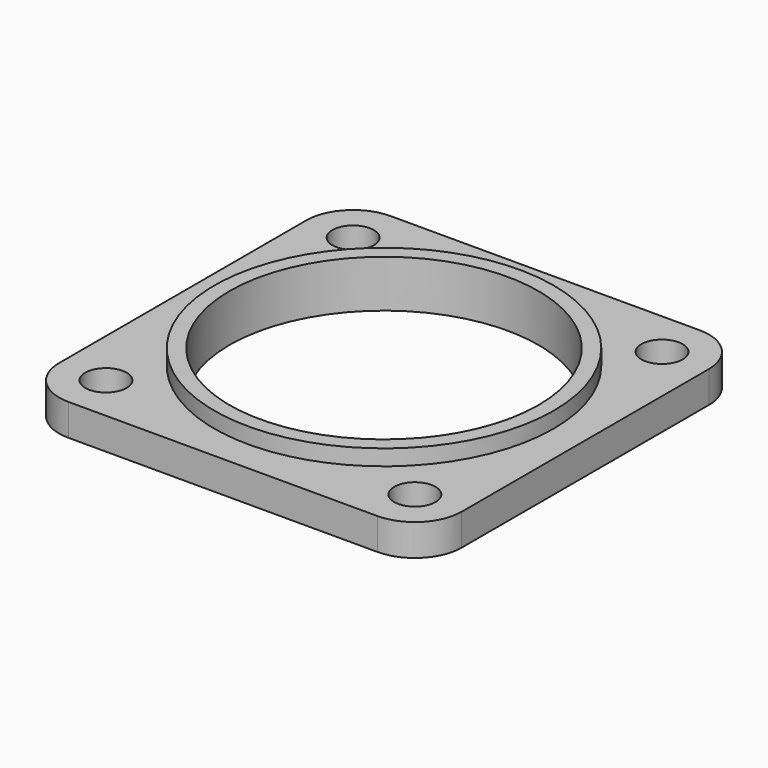
from build123d import *

# Parameters (mm, degrees)
F0_W     = 82.75
F0_H     = 82.75
F0_R     = 4.25
F0_R_2   = 31.75
F1_DEPTH = 6.5
F2_R     = 9.625
F3_R     = 34.875
F3_R_2   = 31.75
F4_DEPTH = 3.25


with BuildPart() as f1:
    # F0 (on Top) → F1 (new body)
    with BuildSketch(Plane.XY):
        Rectangle(F0_W, F0_H)
        with Locations((-31.75, -31.75)):
            Circle(F0_R, mode=Mode.SUBTRACT)
        with Locations((31.75, -31.75)):
            Circle(F0_R, mode=Mode.SUBTRACT)
        with Locations((-31.75, 31.75)):
            Circle(F0_R, mode=Mode.SUBTRACT)
        Circle(F0_R_2, mode=Mode.SUBTRACT)
        with Locations((31.75, 31.75)):
            Circle(F0_R, mode=Mode.SUBTRACT)
    extrude(amount=F1_DEPTH)

    # F2
    f2_edges = [f1.edges().sort_by_distance(p)[0] for p in [
        (-41.375, -41.375, 3.25),
        (-41.375, 41.375, 3.25),
        (41.375, 41.375, 3.25),
        (41.375, -41.375, 3.25),
    ]]
    fillet(f2_edges, radius=F2_R)

    # F3 (on face) → F4 (join)
    with BuildSketch(Plane.XY.offset(6.5)):
        Circle(F3_R)
        Circle(F3_R_2, mode=Mode.SUBTRACT)
    extrude(amount=F4_DEPTH)


solid = f1.part
